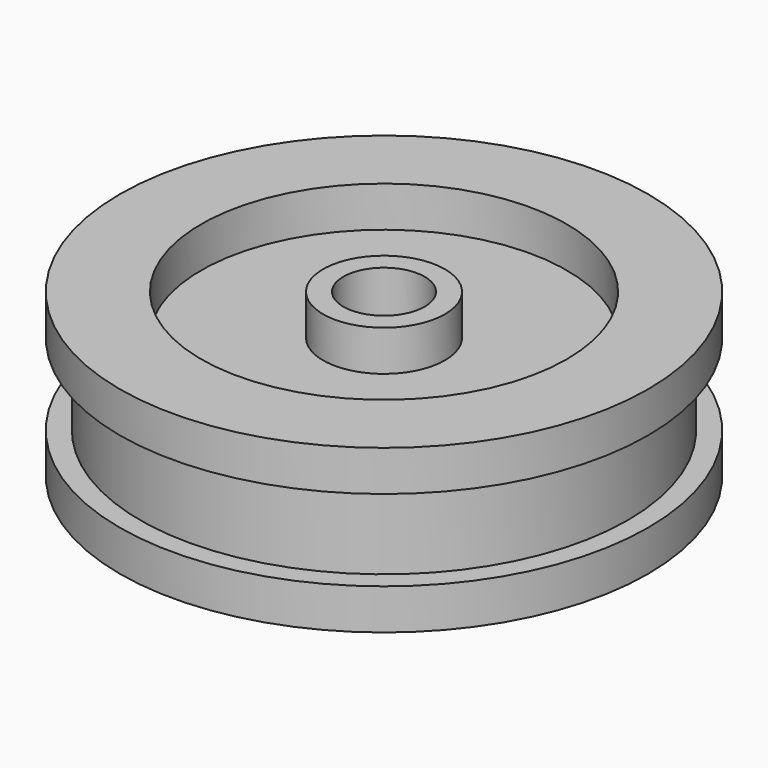
from build123d import *

# Parameters (mm, degrees)
F0_R      = 6.5
F1_DEPTH  = 4
F2_R      = 4.5
F3_DEPTH  = 1
F4_R      = 4.5
F5_DEPTH  = 1
F6_R      = 1.5
F7_DEPTH  = 1
F8_R      = 1.5
F9_DEPTH  = 1
F10_R     = 1
F11_DEPTH = 25
F13_R     = 8.657699
F13_R_2   = 6
F14_DEPTH = 2


with BuildPart() as f1:
    # F0 (on Top) → F1 (new body)
    with BuildSketch(Plane.XY):
        Circle(F0_R)
    extrude(amount=F1_DEPTH)

    # F2 (on face) → F3 (cut)
    with BuildSketch(Plane(origin=(0, 0, 0), x_dir=(1, 0, 0), z_dir=(0, 0, -1))):
        Circle(F2_R)
    extrude(amount=-F3_DEPTH, mode=Mode.SUBTRACT)

    # F4 (on face) → F5 (cut)
    with BuildSketch(Plane.XY.offset(4)):
        Circle(F4_R)
    extrude(amount=-F5_DEPTH, mode=Mode.SUBTRACT)

    # F6 (on face) → F7 (join)
    with BuildSketch(Plane(origin=(0, 0, 1), x_dir=(1, 0, 0), z_dir=(0, 0, -1))):
        Circle(F6_R)
    extrude(amount=F7_DEPTH)

    # F8 (on face) → F9 (join)
    with BuildSketch(Plane.XY.offset(3)):
        Circle(F8_R)
    extrude(amount=F9_DEPTH)

    # F10 (on face) → F11 (cut)
    with BuildSketch(Plane.XY.offset(4)):
        Circle(F10_R)
    extrude(amount=-F11_DEPTH, mode=Mode.SUBTRACT)

    # F13 (on offset) → F14 (cut)
    with BuildSketch(Plane.XY.offset(1)):
        Circle(F13_R)
        Circle(F13_R_2, mode=Mode.SUBTRACT)
    extrude(amount=F14_DEPTH, mode=Mode.SUBTRACT)


solid = f1.part
